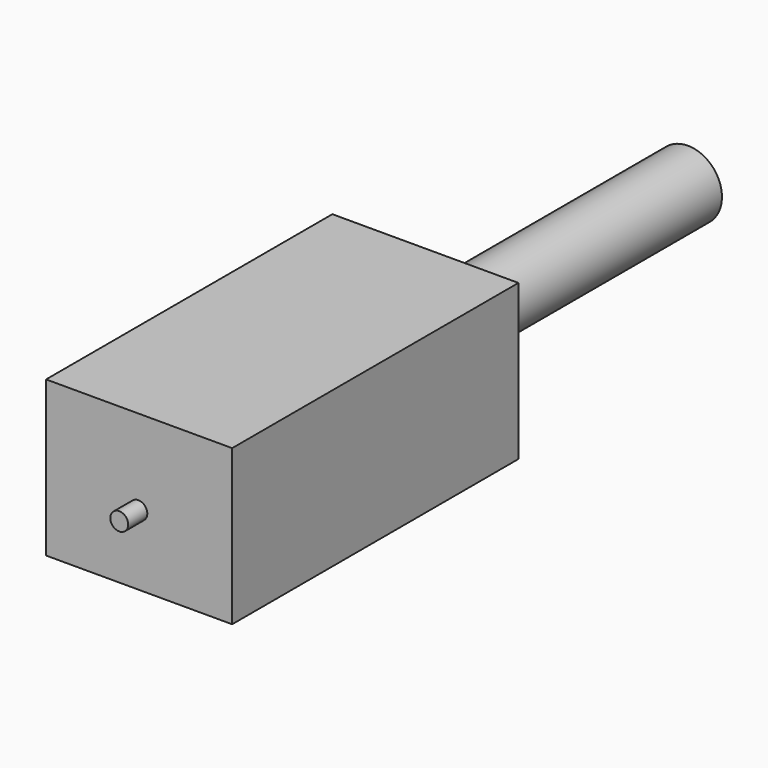
from build123d import *

# Parameters (mm, degrees)
SKETCH052_W  = 15.6
SKETCH052_H  = 30
PAD026_DEPTH = 13
SKETCH053_R  = 2.85
PAD027_DEPTH = 28
SKETCH054_R  = 0.75
PAD028_DEPTH = 2


with BuildPart() as part:
    # Sketch052 → Pad026 (new body)
    with BuildSketch(Plane.XY):
        with Locations((3.092153, -5.992056)):
            Rectangle(SKETCH052_W, SKETCH052_H)
    extrude(amount=PAD026_DEPTH)

    # Sketch053 (on Face4 of Pad026) → Pad027 (join)
    with BuildSketch(Plane(origin=(0, 9.007944, 0), x_dir=(-1, 0, 0), z_dir=(0, 1, 0))):
        with Locations((-2.708779, 6.233849)):
            Circle(SKETCH053_R)
    extrude(amount=PAD027_DEPTH)

    # Sketch054 (on Face3 of Pad027) → Pad028 (join)
    with BuildSketch(Plane.XZ.offset(20.992056)):
        with Locations((3.028248, 5.855581)):
            Circle(SKETCH054_R)
    extrude(amount=PAD028_DEPTH)


with BuildPart() as part_1:
    # Body007 placement: moved
    add(part.part.moved(Location((0, 68, 5))))


solid = part_1.part
